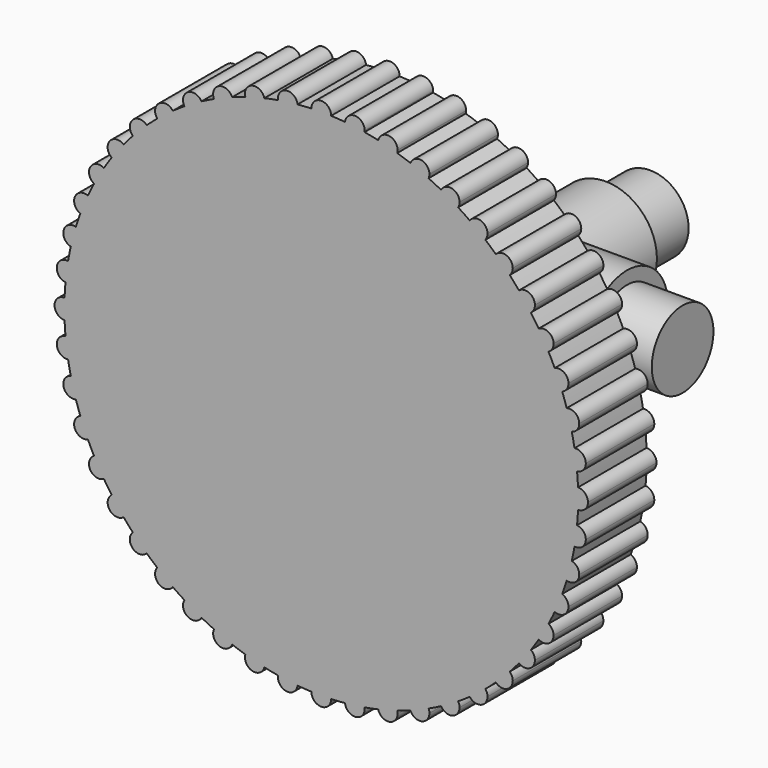
from build123d import *

# Parameters (mm, degrees)
F0_R      = 6
F1_DEPTH  = 12.5
F2_R      = 6
F3_DEPTH  = 12.5
F5_R      = 4.5
F6_DEPTH  = 38
F8_R      = 4.5
F9_DEPTH  = 38
F11_DEPTH = 10


with BuildPart() as f1:
    # F0 (on Front) → F1 (new body, symmetric)
    with BuildSketch(Plane.XZ):
        Circle(F0_R)
    extrude(amount=F1_DEPTH, both=True)

    # F2 (on Right) → F3 (join, symmetric)
    with BuildSketch(Plane.YZ):
        Circle(F2_R)
    extrude(amount=F3_DEPTH, both=True)

    # F5 (on offset) → F6 (join)
    with BuildSketch(Plane.XZ.offset(19)):
        Circle(F5_R)
        Circle(F5_R)
    extrude(amount=-F6_DEPTH)

    # F8 (on offset) → F9 (join)
    with BuildSketch(Plane.YZ.offset(19)):
        Circle(F8_R)
    extrude(amount=-F9_DEPTH)

    # F10 (on face) → F11 (join)
    with BuildSketch(Plane.XZ.offset(19)):
        with BuildLine():
            ThreePointArc((0, 28.85), (0.8053421892, 29.179071283), (1.149788748, 29.9779583333))
            ThreePointArc((1.149788748, 29.9779583333), (0, 30), (-1.149788748, 29.9779583333))
            ThreePointArc((-1.149788748, 29.9779583333), (-0.8053421892, 29.179071283), (0, 28.85))
        make_face()
        with BuildLine():
            ThreePointArc((2.772956606, 29.8715702912), (1.9620938769, 29.9357676972), (1.149788748, 29.9779583333))
            ThreePointArc((1.149788748, 29.9779583333), (0.8053421892, 29.179071283), (0, 28.85))
            ThreePointArc((0, 28.85), (-0.8053421892, 29.179071283), (-1.149788748, 29.9779583333))
            ThreePointArc((-1.149788748, 29.9779583333), (-1.9620938769, 29.9357676972), (-2.772956606, 29.8715702912))
            ThreePointArc((-2.772956606, 29.8715702912), (-2.7675798759, 29.8075582437), (-2.7657857666, 29.7433458412))
            ThreePointArc((-2.7657857666, 29.7433458412), (-3.8295778802, 28.5965816107), (-5.0528608976, 29.5714151969))
            ThreePointArc((-5.0528608976, 29.5714151969), (-5.8527096605, 29.4235584121), (-6.6482559035, 29.2540713994))
            ThreePointArc((-6.6482559035, 29.2540713994), (-6.6230235514, 29.1169459657), (-6.6145713531, 28.9777747887))
            ThreePointArc((-6.6145713531, 28.9777747887), (-7.6035460753, 27.839104134), (-8.8694771964, 28.6588969478))
            ThreePointArc((-8.8694771964, 28.6588969478), (-9.6431839591, 28.4079038849), (-10.4098016993, 28.1360272352))
            ThreePointArc((-10.4098016993, 28.1360272352), (-10.3505015412, 27.9299199746), (-10.330502971, 27.7163859753))
            ThreePointArc((-10.330502971, 27.7163859753), (-11.2453498366, 26.590684859), (-12.5343342812, 27.2560170261))
            ThreePointArc((-12.5343342812, 27.2560170261), (-13.2686607066, 26.906182246), (-13.9932329019, 26.5365678442))
            ThreePointArc((-13.9932329019, 26.5365678442), (-13.8863837818, 26.2677445496), (-13.85, 25.9807621135))
            ThreePointArc((-13.85, 25.9807621135), (-14.691725971, 24.8728509605), (-15.9847254314, 25.3867790963))
            ThreePointArc((-15.9847254314, 25.3867790963), (-16.6671069906, 24.9440883691), (-17.3372360099, 24.4830604201))
            ThreePointArc((-17.3372360099, 24.4830604201), (-17.1703805392, 24.1598021788), (-17.1128428703, 23.8006002087))
            ThreePointArc((-17.1128428703, 23.8006002087), (-17.8827680233, 22.7152232647), (-19.1616134976, 23.0831663376))
            ThreePointArc((-19.1616134976, 23.0831663376), (-19.780374453, 22.5551942244), (-20.384594203, 22.0106410442))
            ThreePointArc((-20.384594203, 22.0106410442), (-20.1465730832, 21.6430867817), (-20.0632034356, 21.2132034356))
            ThreePointArc((-20.0632034356, 21.2132034356), (-20.7629553095, 20.1550084512), (-22.0106410442, 20.384594203))
            ThreePointArc((-22.0106410442, 20.384594203), (-22.5551942244, 19.780374453), (-23.0831663376, 19.1616134976))
            ThreePointArc((-23.0831663376, 19.1616134976), (-22.7643693098, 18.7615667659), (-22.6506002087, 18.2628428703))
            ThreePointArc((-22.6506002087, 18.2628428703), (-23.2821068352, 17.2363611989), (-24.4830604201, 17.3372360099))
            ThreePointArc((-24.4830604201, 17.3372360099), (-24.9440883691, 16.6671069906), (-25.3867790963, 15.9847254314))
            ThreePointArc((-25.3867790963, 15.9847254314), (-24.9793679679, 15.5654288329), (-24.8307621135, 15))
            ThreePointArc((-24.8307621135, 15), (-25.3962437607, 14.0096271939), (-26.5365678442, 13.9932329019))
            ThreePointArc((-26.5365678442, 13.9932329019), (-26.906182246, 13.2686607066), (-27.2560170261, 12.5343342812))
            ThreePointArc((-27.2560170261, 12.5343342812), (-26.7541167065, 12.110215488), (-26.5663859753, 11.480502971))
            ThreePointArc((-26.5663859753, 11.480502971), (-27.0683456405, 10.5304799584), (-28.1360272352, 10.4098016993))
            ThreePointArc((-28.1360272352, 10.4098016993), (-28.4079038849, 9.6431839591), (-28.6588969478, 8.8694771964))
            ThreePointArc((-28.6588969478, 8.8694771964), (-28.0587509813, 8.4558710287), (-27.8277747887, 7.7645713531))
            ThreePointArc((-27.8277747887, 7.7645713531), (-28.2689874801, 6.8589662785), (-29.2540713994, 6.6482559035))
            ThreePointArc((-29.2540713994, 6.6482559035), (-29.4235584121, 5.8527096605), (-29.5714151969, 5.0528608976))
            ThreePointArc((-29.5714151969, 5.0528608976), (-28.8715028964, 4.6657123494), (-28.5933458412, 3.9157857666))
            ThreePointArc((-28.5933458412, 3.9157857666), (-28.9768466949, 3.0584765699), (-29.8715702912, 2.772956606))
            ThreePointArc((-29.8715702912, 2.772956606), (-29.9357676972, 1.9620938769), (-29.9779583333, 1.149788748))
            ThreePointArc((-29.9779583333, 1.149788748), (-29.179071283, 0.8053421892), (-28.85, 0))
            ThreePointArc((-28.85, 0), (-29.179071283, -0.8053421892), (-29.9779583333, -1.149788748))
            ThreePointArc((-29.9779583333, -1.149788748), (-29.9357676972, -1.9620938769), (-29.8715702912, -2.772956606))
            ThreePointArc((-29.8715702912, -2.772956606), (-28.9768466949, -3.0584765699), (-28.5933458412, -3.9157857666))
            ThreePointArc((-28.5933458412, -3.9157857666), (-28.8715028964, -4.6657123494), (-29.5714151969, -5.0528608976))
            ThreePointArc((-29.5714151969, -5.0528608976), (-29.4235584121, -5.8527096605), (-29.2540713994, -6.6482559035))
            ThreePointArc((-29.2540713994, -6.6482559035), (-28.2689874801, -6.8589662785), (-27.8277747887, -7.7645713531))
            ThreePointArc((-27.8277747887, -7.7645713531), (-28.0587509813, -8.4558710287), (-28.6588969478, -8.8694771964))
            ThreePointArc((-28.6588969478, -8.8694771964), (-28.4079038849, -9.6431839591), (-28.1360272352, -10.4098016993))
            ThreePointArc((-28.1360272352, -10.4098016993), (-27.0683456405, -10.5304799584), (-26.5663859753, -11.480502971))
            ThreePointArc((-26.5663859753, -11.480502971), (-26.7541167065, -12.110215488), (-27.2560170261, -12.5343342812))
            ThreePointArc((-27.2560170261, -12.5343342812), (-26.906182246, -13.2686607066), (-26.5365678442, -13.9932329019))
            ThreePointArc((-26.5365678442, -13.9932329019), (-25.3962437607, -14.0096271939), (-24.8307621135, -15))
            ThreePointArc((-24.8307621135, -15), (-24.9793679679, -15.5654288329), (-25.3867790963, -15.9847254314))
            ThreePointArc((-25.3867790963, -15.9847254314), (-24.9440883691, -16.6671069906), (-24.4830604201, -17.3372360099))
            ThreePointArc((-24.4830604201, -17.3372360099), (-23.2821068352, -17.2363611989), (-22.6506002087, -18.2628428703))
            ThreePointArc((-22.6506002087, -18.2628428703), (-22.7643693098, -18.7615667659), (-23.0831663376, -19.1616134976))
            ThreePointArc((-23.0831663376, -19.1616134976), (-22.5551942244, -19.780374453), (-22.0106410442, -20.384594203))
            ThreePointArc((-22.0106410442, -20.384594203), (-20.7629553095, -20.1550084512), (-20.0632034356, -21.2132034356))
            ThreePointArc((-20.0632034356, -21.2132034356), (-20.1465730832, -21.6430867817), (-20.384594203, -22.0106410442))
            ThreePointArc((-20.384594203, -22.0106410442), (-19.780374453, -22.5551942244), (-19.1616134976, -23.0831663376))
            ThreePointArc((-19.1616134976, -23.0831663376), (-17.8827680233, -22.7152232647), (-17.1128428703, -23.8006002087))
            ThreePointArc((-17.1128428703, -23.8006002087), (-17.1703805392, -24.1598021788), (-17.3372360099, -24.4830604201))
            ThreePointArc((-17.3372360099, -24.4830604201), (-16.6671069906, -24.9440883691), (-15.9847254314, -25.3867790963))
            ThreePointArc((-15.9847254314, -25.3867790963), (-14.691725971, -24.8728509605), (-13.85, -25.9807621135))
            ThreePointArc((-13.85, -25.9807621135), (-13.8863837818, -26.2677445496), (-13.9932329019, -26.5365678442))
            ThreePointArc((-13.9932329019, -26.5365678442), (-13.2686607066, -26.906182246), (-12.5343342812, -27.2560170261))
            ThreePointArc((-12.5343342812, -27.2560170261), (-11.2453498366, -26.590684859), (-10.330502971, -27.7163859753))
            ThreePointArc((-10.330502971, -27.7163859753), (-10.3505015412, -27.9299199746), (-10.4098016993, -28.1360272352))
            ThreePointArc((-10.4098016993, -28.1360272352), (-9.6431839591, -28.4079038849), (-8.8694771964, -28.6588969478))
            ThreePointArc((-8.8694771964, -28.6588969478), (-7.6035460753, -27.839104134), (-6.6145713531, -28.9777747887))
            ThreePointArc((-6.6145713531, -28.9777747887), (-6.6230235514, -29.1169459657), (-6.6482559035, -29.2540713994))
            ThreePointArc((-6.6482559035, -29.2540713994), (-5.8527096605, -29.4235584121), (-5.0528608976, -29.5714151969))
            ThreePointArc((-5.0528608976, -29.5714151969), (-3.8295778802, -28.5965816107), (-2.7657857666, -29.7433458412))
            ThreePointArc((-2.7657857666, -29.7433458412), (-2.7675798759, -29.8075582437), (-2.772956606, -29.8715702912))
            ThreePointArc((-2.772956606, -29.8715702912), (-1.9620938769, -29.9357676972), (-1.149788748, -29.9779583333))
            ThreePointArc((-1.149788748, -29.9779583333), (0, -28.85), (1.149788748, -29.9779583333))
            ThreePointArc((1.149788748, -29.9779583333), (1.9620938769, -29.9357676972), (2.772956606, -29.8715702912))
            ThreePointArc((2.772956606, -29.8715702912), (3.7656806455, -28.6031842506), (5.0528608976, -29.5714151969))
            ThreePointArc((5.0528608976, -29.5714151969), (5.8527096605, -29.4235584121), (6.6482559035, -29.2540713994))
            ThreePointArc((6.6482559035, -29.2540713994), (7.4669294512, -27.8669600884), (8.8694771964, -28.6588969478))
            ThreePointArc((8.8694771964, -28.6588969478), (9.6431839591, -28.4079038849), (10.4098016993, -28.1360272352))
            ThreePointArc((10.4098016993, -28.1360272352), (11.0404170237, -26.653924513), (12.5343342812, -27.2560170261))
            ThreePointArc((12.5343342812, -27.2560170261), (13.2686607066, -26.906182246), (13.9932329019, -26.5365678442))
            ThreePointArc((13.9932329019, -26.5365678442), (14.425, -24.9848328992), (15.9847254314, -25.3867790963))
            ThreePointArc((15.9847254314, -25.3867790963), (16.6671069906, -24.9440883691), (17.3372360099, -24.4830604201))
            ThreePointArc((17.3372360099, -24.4830604201), (17.5627672269, -22.8882438674), (19.1616134976, -23.0831663376))
            ThreePointArc((19.1616134976, -23.0831663376), (19.780374453, -22.5551942244), (20.384594203, -22.0106410442))
            ThreePointArc((20.384594203, -22.0106410442), (20.4000306372, -20.4000306372), (22.0106410442, -20.384594203))
            ThreePointArc((22.0106410442, -20.384594203), (22.5551942244, -19.780374453), (23.0831663376, -19.1616134976))
            ThreePointArc((23.0831663376, -19.1616134976), (22.8882438674, -17.5627672269), (24.4830604201, -17.3372360099))
            ThreePointArc((24.4830604201, -17.3372360099), (24.9440883691, -16.6671069906), (25.3867790963, -15.9847254314))
            ThreePointArc((25.3867790963, -15.9847254314), (24.9848328992, -14.425), (26.5365678442, -13.9932329019))
            ThreePointArc((26.5365678442, -13.9932329019), (26.906182246, -13.2686607066), (27.2560170261, -12.5343342812))
            ThreePointArc((27.2560170261, -12.5343342812), (26.653924513, -11.0404170237), (28.1360272352, -10.4098016993))
            ThreePointArc((28.1360272352, -10.4098016993), (28.4079038849, -9.6431839591), (28.6588969478, -8.8694771964))
            ThreePointArc((28.6588969478, -8.8694771964), (27.8669600884, -7.4669294512), (29.2540713994, -6.6482559035))
            ThreePointArc((29.2540713994, -6.6482559035), (29.4235584121, -5.8527096605), (29.5714151969, -5.0528608976))
            ThreePointArc((29.5714151969, -5.0528608976), (28.6031842506, -3.7656806455), (29.8715702912, -2.772956606))
            ThreePointArc((29.8715702912, -2.772956606), (29.9357676972, -1.9620938769), (29.9779583333, -1.149788748))
            ThreePointArc((29.9779583333, -1.149788748), (28.85, 0), (29.9779583333, 1.149788748))
            ThreePointArc((29.9779583333, 1.149788748), (29.9357676972, 1.9620938769), (29.8715702912, 2.772956606))
            ThreePointArc((29.8715702912, 2.772956606), (28.6031842506, 3.7656806455), (29.5714151969, 5.0528608976))
            ThreePointArc((29.5714151969, 5.0528608976), (29.4235584121, 5.8527096605), (29.2540713994, 6.6482559035))
            ThreePointArc((29.2540713994, 6.6482559035), (27.8669600884, 7.4669294512), (28.6588969478, 8.8694771964))
            ThreePointArc((28.6588969478, 8.8694771964), (28.4079038849, 9.6431839591), (28.1360272352, 10.4098016993))
            ThreePointArc((28.1360272352, 10.4098016993), (26.653924513, 11.0404170237), (27.2560170261, 12.5343342812))
            ThreePointArc((27.2560170261, 12.5343342812), (26.906182246, 13.2686607066), (26.5365678442, 13.9932329019))
            ThreePointArc((26.5365678442, 13.9932329019), (24.9848328992, 14.425), (25.3867790963, 15.9847254314))
            ThreePointArc((25.3867790963, 15.9847254314), (24.9440883691, 16.6671069906), (24.4830604201, 17.3372360099))
            ThreePointArc((24.4830604201, 17.3372360099), (22.8882438674, 17.5627672269), (23.0831663376, 19.1616134976))
            ThreePointArc((23.0831663376, 19.1616134976), (22.5551942244, 19.780374453), (22.0106410442, 20.384594203))
            ThreePointArc((22.0106410442, 20.384594203), (20.4000306372, 20.4000306372), (20.384594203, 22.0106410442))
            ThreePointArc((20.384594203, 22.0106410442), (19.780374453, 22.5551942244), (19.1616134976, 23.0831663376))
            ThreePointArc((19.1616134976, 23.0831663376), (17.5627672269, 22.8882438674), (17.3372360099, 24.4830604201))
            ThreePointArc((17.3372360099, 24.4830604201), (16.6671069906, 24.9440883691), (15.9847254314, 25.3867790963))
            ThreePointArc((15.9847254314, 25.3867790963), (14.425, 24.9848328992), (13.9932329019, 26.5365678442))
            ThreePointArc((13.9932329019, 26.5365678442), (13.2686607066, 26.906182246), (12.5343342812, 27.2560170261))
            ThreePointArc((12.5343342812, 27.2560170261), (11.0404170237, 26.653924513), (10.4098016993, 28.1360272352))
            ThreePointArc((10.4098016993, 28.1360272352), (9.6431839591, 28.4079038849), (8.8694771964, 28.6588969478))
            ThreePointArc((8.8694771964, 28.6588969478), (7.4669294512, 27.8669600884), (6.6482559035, 29.2540713994))
            ThreePointArc((6.6482559035, 29.2540713994), (5.8527096605, 29.4235584121), (5.0528608976, 29.5714151969))
            ThreePointArc((5.0528608976, 29.5714151969), (3.7656806455, 28.6031842506), (2.772956606, 29.8715702912))
        make_face()
        with BuildLine():
            ThreePointArc((-1.149788748, 29.9779583333), (0, 30), (1.149788748, 29.9779583333))
            ThreePointArc((1.149788748, 29.9779583333), (1.1499471858, 29.9889786605), (1.15, 30))
            ThreePointArc((1.15, 30), (-0.0110213395, 31.1499471858), (-1.149788748, 29.9779583333))
        make_face()
        with BuildLine():
            ThreePointArc((5.0657857666, 29.7433458412), (3.979998169, 30.8915517319), (2.772956606, 29.8715702912))
            ThreePointArc((2.772956606, 29.8715702912), (3.9157857666, 29.7433458412), (5.0528608976, 29.5714151969))
            ThreePointArc((5.0528608976, 29.5714151969), (5.0625499971, 29.6571379549), (5.0657857666, 29.7433458412))
        make_face()
        with BuildLine():
            ThreePointArc((5.0528608976, 29.5714151969), (3.9157857666, 29.7433458412), (2.772956606, 29.8715702912))
            ThreePointArc((2.772956606, 29.8715702912), (3.7656806455, 28.6031842506), (5.0528608976, 29.5714151969))
        make_face()
        with BuildLine():
            ThreePointArc((-2.7657857666, 29.7433458412), (-2.7675798759, 29.8075582437), (-2.772956606, 29.8715702912))
            ThreePointArc((-2.772956606, 29.8715702912), (-3.9157857666, 29.7433458412), (-5.0528608976, 29.5714151969))
            ThreePointArc((-5.0528608976, 29.5714151969), (-3.8295778802, 28.5965816107), (-2.7657857666, 29.7433458412))
        make_face()
        with BuildLine():
            ThreePointArc((-5.0528608976, 29.5714151969), (-3.9157857666, 29.7433458412), (-2.772956606, 29.8715702912))
            ThreePointArc((-2.772956606, 29.8715702912), (-4.0658908877, 30.8835074318), (-5.0528608976, 29.5714151969))
        make_face()
        with BuildLine():
            ThreePointArc((8.9145713531, 28.9777747887), (7.9037425301, 30.1193225903), (6.6482559035, 29.2540713994))
            ThreePointArc((6.6482559035, 29.2540713994), (7.7645713531, 28.9777747887), (8.8694771964, 28.6588969478))
            ThreePointArc((8.8694771964, 28.6588969478), (8.9032420078, 28.8167495109), (8.9145713531, 28.9777747887))
        make_face()
        with BuildLine():
            ThreePointArc((8.8694771964, 28.6588969478), (7.7645713531, 28.9777747887), (6.6482559035, 29.2540713994))
            ThreePointArc((6.6482559035, 29.2540713994), (7.4669294512, 27.8669600884), (8.8694771964, 28.6588969478))
        make_face()
        with BuildLine():
            ThreePointArc((-6.6145713531, 28.9777747887), (-6.6230235514, 29.1169459657), (-6.6482559035, 29.2540713994))
            ThreePointArc((-6.6482559035, 29.2540713994), (-7.7645713531, 28.9777747887), (-8.8694771964, 28.6588969478))
            ThreePointArc((-8.8694771964, 28.6588969478), (-7.6035460753, 27.839104134), (-6.6145713531, 28.9777747887))
        make_face()
        with BuildLine():
            ThreePointArc((-8.8694771964, 28.6588969478), (-7.7645713531, 28.9777747887), (-6.6482559035, 29.2540713994))
            ThreePointArc((-6.6482559035, 29.2540713994), (-8.0622132549, 30.0885894889), (-8.8694771964, 28.6588969478))
        make_face()
        with BuildLine():
            ThreePointArc((12.630502971, 27.7163859753), (11.6940369702, 28.8463874051), (10.4098016993, 28.1360272352))
            ThreePointArc((10.4098016993, 28.1360272352), (11.480502971, 27.7163859753), (12.5343342812, 27.2560170261))
            ThreePointArc((12.5343342812, 27.2560170261), (12.6062040873, 27.481232841), (12.630502971, 27.7163859753))
        make_face()
        with BuildLine():
            ThreePointArc((12.5343342812, 27.2560170261), (11.480502971, 27.7163859753), (10.4098016993, 28.1360272352))
            ThreePointArc((10.4098016993, 28.1360272352), (11.0404170237, 26.653924513), (12.5343342812, 27.2560170261))
        make_face()
        with BuildLine():
            ThreePointArc((-10.330502971, 27.7163859753), (-10.3505015412, 27.9299199746), (-10.4098016993, 28.1360272352))
            ThreePointArc((-10.4098016993, 28.1360272352), (-11.480502971, 27.7163859753), (-12.5343342812, 27.2560170261))
            ThreePointArc((-12.5343342812, 27.2560170261), (-11.2453498366, 26.590684859), (-10.330502971, 27.7163859753))
        make_face()
        with BuildLine():
            ThreePointArc((-12.5343342812, 27.2560170261), (-11.480502971, 27.7163859753), (-10.4098016993, 28.1360272352))
            ThreePointArc((-10.4098016993, 28.1360272352), (-11.9205889182, 28.7788474377), (-12.5343342812, 27.2560170261))
        make_face()
        with BuildLine():
            ThreePointArc((16.15, 25.9807621135), (15.2869824361, 27.0943783317), (13.9932329019, 26.5365678442))
            ThreePointArc((13.9932329019, 26.5365678442), (15, 25.9807621135), (15.9847254314, 25.3867790963))
            ThreePointArc((15.9847254314, 25.3867790963), (16.107911153, 25.6724880845), (16.15, 25.9807621135))
        make_face()
        with BuildLine():
            ThreePointArc((15.9847254314, 25.3867790963), (15, 25.9807621135), (13.9932329019, 26.5365678442))
            ThreePointArc((13.9932329019, 26.5365678442), (14.425, 24.9848328992), (15.9847254314, 25.3867790963))
        make_face()
        with BuildLine():
            ThreePointArc((-13.85, 25.9807621135), (-13.8863837818, 26.2677445496), (-13.9932329019, 26.5365678442))
            ThreePointArc((-13.9932329019, 26.5365678442), (-15, 25.9807621135), (-15.9847254314, 25.3867790963))
            ThreePointArc((-15.9847254314, 25.3867790963), (-14.691725971, 24.8728509605), (-13.85, 25.9807621135))
        make_face()
        with BuildLine():
            ThreePointArc((-15.9847254314, 25.3867790963), (-15, 25.9807621135), (-13.9932329019, 26.5365678442))
            ThreePointArc((-13.9932329019, 26.5365678442), (-15.575, 26.9766913279), (-15.9847254314, 25.3867790963))
        make_face()
        with BuildLine():
            ThreePointArc((19.4128428703, 23.8006002087), (18.6220448404, 24.8930625398), (17.3372360099, 24.4830604201))
            ThreePointArc((17.3372360099, 24.4830604201), (18.2628428703, 23.8006002087), (19.1616134976, 23.0831663376))
            ThreePointArc((19.1616134976, 23.0831663376), (19.3482198143, 23.4205253618), (19.4128428703, 23.8006002087))
        make_face()
        with BuildLine():
            ThreePointArc((19.1616134976, 23.0831663376), (18.2628428703, 23.8006002087), (17.3372360099, 24.4830604201))
            ThreePointArc((17.3372360099, 24.4830604201), (17.5627672269, 22.8882438674), (19.1616134976, 23.0831663376))
        make_face()
        with BuildLine():
            ThreePointArc((-17.1128428703, 23.8006002087), (-17.1703805392, 24.1598021788), (-17.3372360099, 24.4830604201))
            ThreePointArc((-17.3372360099, 24.4830604201), (-18.2628428703, 23.8006002087), (-19.1616134976, 23.0831663376))
            ThreePointArc((-19.1616134976, 23.0831663376), (-17.8827680233, 22.7152232647), (-17.1128428703, 23.8006002087))
        make_face()
        with BuildLine():
            ThreePointArc((-19.1616134976, 23.0831663376), (-18.2628428703, 23.8006002087), (-17.3372360099, 24.4830604201))
            ThreePointArc((-17.3372360099, 24.4830604201), (-18.9629185136, 24.7129565501), (-19.1616134976, 23.0831663376))
        make_face()
        with BuildLine():
            ThreePointArc((22.3632034356, 21.2132034356), (21.6430867817, 22.279833788), (20.384594203, 22.0106410442))
            ThreePointArc((20.384594203, 22.0106410442), (21.2132034356, 21.2132034356), (22.0106410442, 20.384594203))
            ThreePointArc((22.0106410442, 20.384594203), (22.27139842, 20.7629553095), (22.3632034356, 21.2132034356))
        make_face()
        with BuildLine():
            ThreePointArc((22.0106410442, 20.384594203), (21.2132034356, 21.2132034356), (20.384594203, 22.0106410442))
            ThreePointArc((20.384594203, 22.0106410442), (20.4000306372, 20.4000306372), (22.0106410442, 20.384594203))
        make_face()
        with BuildLine():
            ThreePointArc((-20.0632034356, 21.2132034356), (-20.1465730832, 21.6430867817), (-20.384594203, 22.0106410442))
            ThreePointArc((-20.384594203, 22.0106410442), (-21.2132034356, 21.2132034356), (-22.0106410442, 20.384594203))
            ThreePointArc((-22.0106410442, 20.384594203), (-20.7629553095, 20.1550084512), (-20.0632034356, 21.2132034356))
        make_face()
        with BuildLine():
            ThreePointArc((-22.0106410442, 20.384594203), (-21.2132034356, 21.2132034356), (-20.384594203, 22.0106410442))
            ThreePointArc((-20.384594203, 22.0106410442), (-22.026376234, 22.026376234), (-22.0106410442, 20.384594203))
        make_face()
        with BuildLine():
            ThreePointArc((24.9506002087, 18.2628428703), (24.2993241044, 19.2990737692), (23.0831663376, 19.1616134976))
            ThreePointArc((23.0831663376, 19.1616134976), (23.8006002087, 18.2628428703), (24.4830604201, 17.3372360099))
            ThreePointArc((24.4830604201, 17.3372360099), (24.8270818801, 17.7443494967), (24.9506002087, 18.2628428703))
        make_face()
        with BuildLine():
            ThreePointArc((24.4830604201, 17.3372360099), (23.8006002087, 18.2628428703), (23.0831663376, 19.1616134976))
            ThreePointArc((23.0831663376, 19.1616134976), (22.8882438674, 17.5627672269), (24.4830604201, 17.3372360099))
        make_face()
        with BuildLine():
            ThreePointArc((-22.6506002087, 18.2628428703), (-22.7643693098, 18.7615667659), (-23.0831663376, 19.1616134976))
            ThreePointArc((-23.0831663376, 19.1616134976), (-23.8006002087, 18.2628428703), (-24.4830604201, 17.3372360099))
            ThreePointArc((-24.4830604201, 17.3372360099), (-23.2821068352, 17.2363611989), (-22.6506002087, 18.2628428703))
        make_face()
        with BuildLine():
            ThreePointArc((-24.4830604201, 17.3372360099), (-23.8006002087, 18.2628428703), (-23.0831663376, 19.1616134976))
            ThreePointArc((-23.0831663376, 19.1616134976), (-24.7129565501, 18.9629185136), (-24.4830604201, 17.3372360099))
        make_face()
        with BuildLine():
            ThreePointArc((27.1307621135, 15), (26.5461909464, 16.0013941456), (25.3867790963, 15.9847254314))
            ThreePointArc((25.3867790963, 15.9847254314), (25.9807621135, 15), (26.5365678442, 13.9932329019))
            ThreePointArc((26.5365678442, 13.9932329019), (26.9711349197, 14.4154816471), (27.1307621135, 15))
        make_face()
        with BuildLine():
            ThreePointArc((26.5365678442, 13.9932329019), (25.9807621135, 15), (25.3867790963, 15.9847254314))
            ThreePointArc((25.3867790963, 15.9847254314), (24.9848328992, 14.425), (26.5365678442, 13.9932329019))
        make_face()
        with BuildLine():
            ThreePointArc((-24.8307621135, 15), (-24.9793679679, 15.5654288329), (-25.3867790963, 15.9847254314))
            ThreePointArc((-25.3867790963, 15.9847254314), (-25.9807621135, 15), (-26.5365678442, 13.9932329019))
            ThreePointArc((-26.5365678442, 13.9932329019), (-25.3962437607, 14.0096271939), (-24.8307621135, 15))
        make_face()
        with BuildLine():
            ThreePointArc((-26.5365678442, 13.9932329019), (-25.9807621135, 15), (-25.3867790963, 15.9847254314))
            ThreePointArc((-25.3867790963, 15.9847254314), (-26.9766913279, 15.575), (-26.5365678442, 13.9932329019))
        make_face()
        with BuildLine():
            ThreePointArc((28.8663859753, 11.480502971), (28.3460984924, 12.4427722398), (27.2560170261, 12.5343342812))
            ThreePointArc((27.2560170261, 12.5343342812), (27.7163859753, 11.480502971), (28.1360272352, 10.4098016993))
            ThreePointArc((28.1360272352, 10.4098016993), (28.6664089879, 10.8324626361), (28.8663859753, 11.480502971))
        make_face()
        with BuildLine():
            ThreePointArc((28.1360272352, 10.4098016993), (27.7163859753, 11.480502971), (27.2560170261, 12.5343342812))
            ThreePointArc((27.2560170261, 12.5343342812), (26.653924513, 11.0404170237), (28.1360272352, 10.4098016993))
        make_face()
        with BuildLine():
            ThreePointArc((-26.5663859753, 11.480502971), (-26.7541167065, 12.110215488), (-27.2560170261, 12.5343342812))
            ThreePointArc((-27.2560170261, 12.5343342812), (-27.7163859753, 11.480502971), (-28.1360272352, 10.4098016993))
            ThreePointArc((-28.1360272352, 10.4098016993), (-27.0683456405, 10.5304799584), (-26.5663859753, 11.480502971))
        make_face()
        with BuildLine():
            ThreePointArc((-28.1360272352, 10.4098016993), (-27.7163859753, 11.480502971), (-27.2560170261, 12.5343342812))
            ThreePointArc((-27.2560170261, 12.5343342812), (-28.7788474377, 11.9205889182), (-28.1360272352, 10.4098016993))
        make_face()
        with BuildLine():
            ThreePointArc((30.1277747887, 7.7645713531), (29.6690744643, 8.6835951604), (28.6588969478, 8.8694771964))
            ThreePointArc((28.6588969478, 8.8694771964), (28.9777747887, 7.7645713531), (29.2540713994, 6.6482559035))
            ThreePointArc((29.2540713994, 6.6482559035), (29.8833798633, 7.0557840445), (30.1277747887, 7.7645713531))
        make_face()
        with BuildLine():
            ThreePointArc((29.2540713994, 6.6482559035), (28.9777747887, 7.7645713531), (28.6588969478, 8.8694771964))
            ThreePointArc((28.6588969478, 8.8694771964), (27.8669600884, 7.4669294512), (29.2540713994, 6.6482559035))
        make_face()
        with BuildLine():
            ThreePointArc((-27.8277747887, 7.7645713531), (-28.0587509813, 8.4558710287), (-28.6588969478, 8.8694771964))
            ThreePointArc((-28.6588969478, 8.8694771964), (-28.9777747887, 7.7645713531), (-29.2540713994, 6.6482559035))
            ThreePointArc((-29.2540713994, 6.6482559035), (-28.2689874801, 6.8589662785), (-27.8277747887, 7.7645713531))
        make_face()
        with BuildLine():
            ThreePointArc((-29.2540713994, 6.6482559035), (-28.9777747887, 7.7645713531), (-28.6588969478, 8.8694771964))
            ThreePointArc((-28.6588969478, 8.8694771964), (-30.0885894889, 8.0622132549), (-29.2540713994, 6.6482559035))
        make_face()
        with BuildLine():
            ThreePointArc((30.8933458412, 3.9157857666), (30.493272424, 4.7876287114), (29.5714151969, 5.0528608976))
            ThreePointArc((29.5714151969, 5.0528608976), (29.7433458412, 3.9157857666), (29.8715702912, 2.772956606))
            ThreePointArc((29.8715702912, 2.772956606), (30.6006550379, 3.1492866203), (30.8933458412, 3.9157857666))
        make_face()
        with BuildLine():
            ThreePointArc((29.8715702912, 2.772956606), (29.7433458412, 3.9157857666), (29.5714151969, 5.0528608976))
            ThreePointArc((29.5714151969, 5.0528608976), (28.6031842506, 3.7656806455), (29.8715702912, 2.772956606))
        make_face()
        with BuildLine():
            ThreePointArc((-28.5933458412, 3.9157857666), (-28.8715028964, 4.6657123494), (-29.5714151969, 5.0528608976))
            ThreePointArc((-29.5714151969, 5.0528608976), (-29.7433458412, 3.9157857666), (-29.8715702912, 2.772956606))
            ThreePointArc((-29.8715702912, 2.772956606), (-28.9768466949, 3.0584765699), (-28.5933458412, 3.9157857666))
        make_face()
        with BuildLine():
            ThreePointArc((-29.8715702912, 2.772956606), (-29.7433458412, 3.9157857666), (-29.5714151969, 5.0528608976))
            ThreePointArc((-29.5714151969, 5.0528608976), (-30.8835074318, 4.0658908877), (-29.8715702912, 2.772956606))
        make_face()
        with BuildLine():
            ThreePointArc((31.15, 0), (30.8053421892, 0.820928717), (29.9779583333, 1.149788748))
            ThreePointArc((29.9779583333, 1.149788748), (29.9944890772, 0.575), (30, 0))
            ThreePointArc((30, 0), (29.9944890772, -0.575), (29.9779583333, -1.149788748))
            ThreePointArc((29.9779583333, -1.149788748), (30.8053421892, -0.820928717), (31.15, 0))
        make_face()
        with BuildLine():
            ThreePointArc((30, 0), (29.9944890772, 0.575), (29.9779583333, 1.149788748))
            ThreePointArc((29.9779583333, 1.149788748), (28.85, 0), (29.9779583333, -1.149788748))
            ThreePointArc((29.9779583333, -1.149788748), (29.9944890772, -0.575), (30, 0))
        make_face()
        with BuildLine():
            ThreePointArc((-28.85, 0), (-29.179071283, 0.8053421892), (-29.9779583333, 1.149788748))
            ThreePointArc((-29.9779583333, 1.149788748), (-30, 0), (-29.9779583333, -1.149788748))
            ThreePointArc((-29.9779583333, -1.149788748), (-29.179071283, -0.8053421892), (-28.85, 0))
        make_face()
        with BuildLine():
            ThreePointArc((-29.9779583333, -1.149788748), (-30, 0), (-29.9779583333, 1.149788748))
            ThreePointArc((-29.9779583333, 1.149788748), (-31.15, 0), (-29.9779583333, -1.149788748))
        make_face()
        with BuildLine():
            ThreePointArc((30.8933458412, -3.9157857666), (30.6006550379, -3.1492866203), (29.8715702912, -2.772956606))
            ThreePointArc((29.8715702912, -2.772956606), (29.7433458412, -3.9157857666), (29.5714151969, -5.0528608976))
            ThreePointArc((29.5714151969, -5.0528608976), (30.493272424, -4.7876287114), (30.8933458412, -3.9157857666))
        make_face()
        with BuildLine():
            ThreePointArc((29.5714151969, -5.0528608976), (29.7433458412, -3.9157857666), (29.8715702912, -2.772956606))
            ThreePointArc((29.8715702912, -2.772956606), (28.6031842506, -3.7656806455), (29.5714151969, -5.0528608976))
        make_face()
        with BuildLine():
            ThreePointArc((-28.5933458412, -3.9157857666), (-28.9768466949, -3.0584765699), (-29.8715702912, -2.772956606))
            ThreePointArc((-29.8715702912, -2.772956606), (-29.7433458412, -3.9157857666), (-29.5714151969, -5.0528608976))
            ThreePointArc((-29.5714151969, -5.0528608976), (-28.8715028964, -4.6657123494), (-28.5933458412, -3.9157857666))
        make_face()
        with BuildLine():
            ThreePointArc((-29.5714151969, -5.0528608976), (-29.7433458412, -3.9157857666), (-29.8715702912, -2.772956606))
            ThreePointArc((-29.8715702912, -2.772956606), (-30.8835074318, -4.0658908877), (-29.5714151969, -5.0528608976))
        make_face()
        with BuildLine():
            ThreePointArc((30.1277747887, -7.7645713531), (29.8833798633, -7.0557840445), (29.2540713994, -6.6482559035))
            ThreePointArc((29.2540713994, -6.6482559035), (28.9777747887, -7.7645713531), (28.6588969478, -8.8694771964))
            ThreePointArc((28.6588969478, -8.8694771964), (29.6690744643, -8.6835951604), (30.1277747887, -7.7645713531))
        make_face()
        with BuildLine():
            ThreePointArc((28.6588969478, -8.8694771964), (28.9777747887, -7.7645713531), (29.2540713994, -6.6482559035))
            ThreePointArc((29.2540713994, -6.6482559035), (27.8669600884, -7.4669294512), (28.6588969478, -8.8694771964))
        make_face()
        with BuildLine():
            ThreePointArc((-27.8277747887, -7.7645713531), (-28.2689874801, -6.8589662785), (-29.2540713994, -6.6482559035))
            ThreePointArc((-29.2540713994, -6.6482559035), (-28.9777747887, -7.7645713531), (-28.6588969478, -8.8694771964))
            ThreePointArc((-28.6588969478, -8.8694771964), (-28.0587509813, -8.4558710287), (-27.8277747887, -7.7645713531))
        make_face()
        with BuildLine():
            ThreePointArc((-28.6588969478, -8.8694771964), (-28.9777747887, -7.7645713531), (-29.2540713994, -6.6482559035))
            ThreePointArc((-29.2540713994, -6.6482559035), (-30.0885894889, -8.0622132549), (-28.6588969478, -8.8694771964))
        make_face()
        with BuildLine():
            ThreePointArc((28.8663859753, -11.480502971), (28.6664089879, -10.8324626361), (28.1360272352, -10.4098016993))
            ThreePointArc((28.1360272352, -10.4098016993), (27.7163859753, -11.480502971), (27.2560170261, -12.5343342812))
            ThreePointArc((27.2560170261, -12.5343342812), (28.3460984924, -12.4427722398), (28.8663859753, -11.480502971))
        make_face()
        with BuildLine():
            ThreePointArc((27.2560170261, -12.5343342812), (27.7163859753, -11.480502971), (28.1360272352, -10.4098016993))
            ThreePointArc((28.1360272352, -10.4098016993), (26.653924513, -11.0404170237), (27.2560170261, -12.5343342812))
        make_face()
        with BuildLine():
            ThreePointArc((-26.5663859753, -11.480502971), (-27.0683456405, -10.5304799584), (-28.1360272352, -10.4098016993))
            ThreePointArc((-28.1360272352, -10.4098016993), (-27.7163859753, -11.480502971), (-27.2560170261, -12.5343342812))
            ThreePointArc((-27.2560170261, -12.5343342812), (-26.7541167065, -12.110215488), (-26.5663859753, -11.480502971))
        make_face()
        with BuildLine():
            ThreePointArc((-27.2560170261, -12.5343342812), (-27.7163859753, -11.480502971), (-28.1360272352, -10.4098016993))
            ThreePointArc((-28.1360272352, -10.4098016993), (-28.7788474377, -11.9205889182), (-27.2560170261, -12.5343342812))
        make_face()
        with BuildLine():
            ThreePointArc((27.1307621135, -15), (26.9711349197, -14.4154816471), (26.5365678442, -13.9932329019))
            ThreePointArc((26.5365678442, -13.9932329019), (25.9807621135, -15), (25.3867790963, -15.9847254314))
            ThreePointArc((25.3867790963, -15.9847254314), (26.5461909464, -16.0013941456), (27.1307621135, -15))
        make_face()
        with BuildLine():
            ThreePointArc((25.3867790963, -15.9847254314), (25.9807621135, -15), (26.5365678442, -13.9932329019))
            ThreePointArc((26.5365678442, -13.9932329019), (24.9848328992, -14.425), (25.3867790963, -15.9847254314))
        make_face()
        with BuildLine():
            ThreePointArc((-24.8307621135, -15), (-25.3962437607, -14.0096271939), (-26.5365678442, -13.9932329019))
            ThreePointArc((-26.5365678442, -13.9932329019), (-25.9807621135, -15), (-25.3867790963, -15.9847254314))
            ThreePointArc((-25.3867790963, -15.9847254314), (-24.9793679679, -15.5654288329), (-24.8307621135, -15))
        make_face()
        with BuildLine():
            ThreePointArc((-25.3867790963, -15.9847254314), (-25.9807621135, -15), (-26.5365678442, -13.9932329019))
            ThreePointArc((-26.5365678442, -13.9932329019), (-26.9766913279, -15.575), (-25.3867790963, -15.9847254314))
        make_face()
        with BuildLine():
            ThreePointArc((24.9506002087, -18.2628428703), (24.8270818801, -17.7443494967), (24.4830604201, -17.3372360099))
            ThreePointArc((24.4830604201, -17.3372360099), (23.8006002087, -18.2628428703), (23.0831663376, -19.1616134976))
            ThreePointArc((23.0831663376, -19.1616134976), (24.2993241044, -19.2990737692), (24.9506002087, -18.2628428703))
        make_face()
        with BuildLine():
            ThreePointArc((23.0831663376, -19.1616134976), (23.8006002087, -18.2628428703), (24.4830604201, -17.3372360099))
            ThreePointArc((24.4830604201, -17.3372360099), (22.8882438674, -17.5627672269), (23.0831663376, -19.1616134976))
        make_face()
        with BuildLine():
            ThreePointArc((-22.6506002087, -18.2628428703), (-23.2821068352, -17.2363611989), (-24.4830604201, -17.3372360099))
            ThreePointArc((-24.4830604201, -17.3372360099), (-23.8006002087, -18.2628428703), (-23.0831663376, -19.1616134976))
            ThreePointArc((-23.0831663376, -19.1616134976), (-22.7643693098, -18.7615667659), (-22.6506002087, -18.2628428703))
        make_face()
        with BuildLine():
            ThreePointArc((-23.0831663376, -19.1616134976), (-23.8006002087, -18.2628428703), (-24.4830604201, -17.3372360099))
            ThreePointArc((-24.4830604201, -17.3372360099), (-24.7129565501, -18.9629185136), (-23.0831663376, -19.1616134976))
        make_face()
        with BuildLine():
            ThreePointArc((22.3632034356, -21.2132034356), (22.27139842, -20.7629553095), (22.0106410442, -20.384594203))
            ThreePointArc((22.0106410442, -20.384594203), (21.2132034356, -21.2132034356), (20.384594203, -22.0106410442))
            ThreePointArc((20.384594203, -22.0106410442), (21.6430867817, -22.279833788), (22.3632034356, -21.2132034356))
        make_face()
        with BuildLine():
            ThreePointArc((20.384594203, -22.0106410442), (21.2132034356, -21.2132034356), (22.0106410442, -20.384594203))
            ThreePointArc((22.0106410442, -20.384594203), (20.4000306372, -20.4000306372), (20.384594203, -22.0106410442))
        make_face()
        with BuildLine():
            ThreePointArc((-20.0632034356, -21.2132034356), (-20.7629553095, -20.1550084512), (-22.0106410442, -20.384594203))
            ThreePointArc((-22.0106410442, -20.384594203), (-21.2132034356, -21.2132034356), (-20.384594203, -22.0106410442))
            ThreePointArc((-20.384594203, -22.0106410442), (-20.1465730832, -21.6430867817), (-20.0632034356, -21.2132034356))
        make_face()
        with BuildLine():
            ThreePointArc((-20.384594203, -22.0106410442), (-21.2132034356, -21.2132034356), (-22.0106410442, -20.384594203))
            ThreePointArc((-22.0106410442, -20.384594203), (-22.026376234, -22.026376234), (-20.384594203, -22.0106410442))
        make_face()
        with BuildLine():
            ThreePointArc((19.4128428703, -23.8006002087), (19.3482198143, -23.4205253618), (19.1616134976, -23.0831663376))
            ThreePointArc((19.1616134976, -23.0831663376), (18.2628428703, -23.8006002087), (17.3372360099, -24.4830604201))
            ThreePointArc((17.3372360099, -24.4830604201), (18.6220448404, -24.8930625398), (19.4128428703, -23.8006002087))
        make_face()
        with BuildLine():
            ThreePointArc((17.3372360099, -24.4830604201), (18.2628428703, -23.8006002087), (19.1616134976, -23.0831663376))
            ThreePointArc((19.1616134976, -23.0831663376), (17.5627672269, -22.8882438674), (17.3372360099, -24.4830604201))
        make_face()
        with BuildLine():
            ThreePointArc((-17.1128428703, -23.8006002087), (-17.8827680233, -22.7152232647), (-19.1616134976, -23.0831663376))
            ThreePointArc((-19.1616134976, -23.0831663376), (-18.2628428703, -23.8006002087), (-17.3372360099, -24.4830604201))
            ThreePointArc((-17.3372360099, -24.4830604201), (-17.1703805392, -24.1598021788), (-17.1128428703, -23.8006002087))
        make_face()
        with BuildLine():
            ThreePointArc((-17.3372360099, -24.4830604201), (-18.2628428703, -23.8006002087), (-19.1616134976, -23.0831663376))
            ThreePointArc((-19.1616134976, -23.0831663376), (-18.9629185136, -24.7129565501), (-17.3372360099, -24.4830604201))
        make_face()
        with BuildLine():
            ThreePointArc((16.15, -25.9807621135), (16.107911153, -25.6724880845), (15.9847254314, -25.3867790963))
            ThreePointArc((15.9847254314, -25.3867790963), (15, -25.9807621135), (13.9932329019, -26.5365678442))
            ThreePointArc((13.9932329019, -26.5365678442), (15.2869824361, -27.0943783317), (16.15, -25.9807621135))
        make_face()
        with BuildLine():
            ThreePointArc((13.9932329019, -26.5365678442), (15, -25.9807621135), (15.9847254314, -25.3867790963))
            ThreePointArc((15.9847254314, -25.3867790963), (14.425, -24.9848328992), (13.9932329019, -26.5365678442))
        make_face()
        with BuildLine():
            ThreePointArc((-13.85, -25.9807621135), (-14.691725971, -24.8728509605), (-15.9847254314, -25.3867790963))
            ThreePointArc((-15.9847254314, -25.3867790963), (-15, -25.9807621135), (-13.9932329019, -26.5365678442))
            ThreePointArc((-13.9932329019, -26.5365678442), (-13.8863837818, -26.2677445496), (-13.85, -25.9807621135))
        make_face()
        with BuildLine():
            ThreePointArc((-13.9932329019, -26.5365678442), (-15, -25.9807621135), (-15.9847254314, -25.3867790963))
            ThreePointArc((-15.9847254314, -25.3867790963), (-15.575, -26.9766913279), (-13.9932329019, -26.5365678442))
        make_face()
        with BuildLine():
            ThreePointArc((12.630502971, -27.7163859753), (12.6062040873, -27.481232841), (12.5343342812, -27.2560170261))
            ThreePointArc((12.5343342812, -27.2560170261), (11.480502971, -27.7163859753), (10.4098016993, -28.1360272352))
            ThreePointArc((10.4098016993, -28.1360272352), (11.6940369702, -28.8463874051), (12.630502971, -27.7163859753))
        make_face()
        with BuildLine():
            ThreePointArc((10.4098016993, -28.1360272352), (11.480502971, -27.7163859753), (12.5343342812, -27.2560170261))
            ThreePointArc((12.5343342812, -27.2560170261), (11.0404170237, -26.653924513), (10.4098016993, -28.1360272352))
        make_face()
        with BuildLine():
            ThreePointArc((-10.330502971, -27.7163859753), (-11.2453498366, -26.590684859), (-12.5343342812, -27.2560170261))
            ThreePointArc((-12.5343342812, -27.2560170261), (-11.480502971, -27.7163859753), (-10.4098016993, -28.1360272352))
            ThreePointArc((-10.4098016993, -28.1360272352), (-10.3505015412, -27.9299199746), (-10.330502971, -27.7163859753))
        make_face()
        with BuildLine():
            ThreePointArc((-10.4098016993, -28.1360272352), (-11.480502971, -27.7163859753), (-12.5343342812, -27.2560170261))
            ThreePointArc((-12.5343342812, -27.2560170261), (-11.9205889182, -28.7788474377), (-10.4098016993, -28.1360272352))
        make_face()
        with BuildLine():
            ThreePointArc((8.9145713531, -28.9777747887), (8.9032420078, -28.8167495109), (8.8694771964, -28.6588969478))
            ThreePointArc((8.8694771964, -28.6588969478), (7.7645713531, -28.9777747887), (6.6482559035, -29.2540713994))
            ThreePointArc((6.6482559035, -29.2540713994), (7.9037425301, -30.1193225903), (8.9145713531, -28.9777747887))
        make_face()
        with BuildLine():
            ThreePointArc((6.6482559035, -29.2540713994), (7.7645713531, -28.9777747887), (8.8694771964, -28.6588969478))
            ThreePointArc((8.8694771964, -28.6588969478), (7.4669294512, -27.8669600884), (6.6482559035, -29.2540713994))
        make_face()
        with BuildLine():
            ThreePointArc((-6.6145713531, -28.9777747887), (-7.6035460753, -27.839104134), (-8.8694771964, -28.6588969478))
            ThreePointArc((-8.8694771964, -28.6588969478), (-7.7645713531, -28.9777747887), (-6.6482559035, -29.2540713994))
            ThreePointArc((-6.6482559035, -29.2540713994), (-6.6230235514, -29.1169459657), (-6.6145713531, -28.9777747887))
        make_face()
        with BuildLine():
            ThreePointArc((-6.6482559035, -29.2540713994), (-7.7645713531, -28.9777747887), (-8.8694771964, -28.6588969478))
            ThreePointArc((-8.8694771964, -28.6588969478), (-8.0622132549, -30.0885894889), (-6.6482559035, -29.2540713994))
        make_face()
        with BuildLine():
            ThreePointArc((5.0657857666, -29.7433458412), (5.0625499971, -29.6571379549), (5.0528608976, -29.5714151969))
            ThreePointArc((5.0528608976, -29.5714151969), (3.9157857666, -29.7433458412), (2.772956606, -29.8715702912))
            ThreePointArc((2.772956606, -29.8715702912), (3.979998169, -30.8915517319), (5.0657857666, -29.7433458412))
        make_face()
        with BuildLine():
            ThreePointArc((2.772956606, -29.8715702912), (3.9157857666, -29.7433458412), (5.0528608976, -29.5714151969))
            ThreePointArc((5.0528608976, -29.5714151969), (3.7656806455, -28.6031842506), (2.772956606, -29.8715702912))
        make_face()
        with BuildLine():
            ThreePointArc((-2.7657857666, -29.7433458412), (-3.8295778802, -28.5965816107), (-5.0528608976, -29.5714151969))
            ThreePointArc((-5.0528608976, -29.5714151969), (-3.9157857666, -29.7433458412), (-2.772956606, -29.8715702912))
            ThreePointArc((-2.772956606, -29.8715702912), (-2.7675798759, -29.8075582437), (-2.7657857666, -29.7433458412))
        make_face()
        with BuildLine():
            ThreePointArc((-2.772956606, -29.8715702912), (-3.9157857666, -29.7433458412), (-5.0528608976, -29.5714151969))
            ThreePointArc((-5.0528608976, -29.5714151969), (-4.0658908877, -30.8835074318), (-2.772956606, -29.8715702912))
        make_face()
        with BuildLine():
            ThreePointArc((1.15, -30), (1.1499471858, -29.9889786605), (1.149788748, -29.9779583333))
            ThreePointArc((1.149788748, -29.9779583333), (0, -30), (-1.149788748, -29.9779583333))
            ThreePointArc((-1.149788748, -29.9779583333), (-0.0110213395, -31.1499471858), (1.15, -30))
        make_face()
        with BuildLine():
            ThreePointArc((-1.149788748, -29.9779583333), (0, -30), (1.149788748, -29.9779583333))
            ThreePointArc((1.149788748, -29.9779583333), (0, -28.85), (-1.149788748, -29.9779583333))
        make_face()
    extrude(amount=F11_DEPTH)


solid = f1.part
